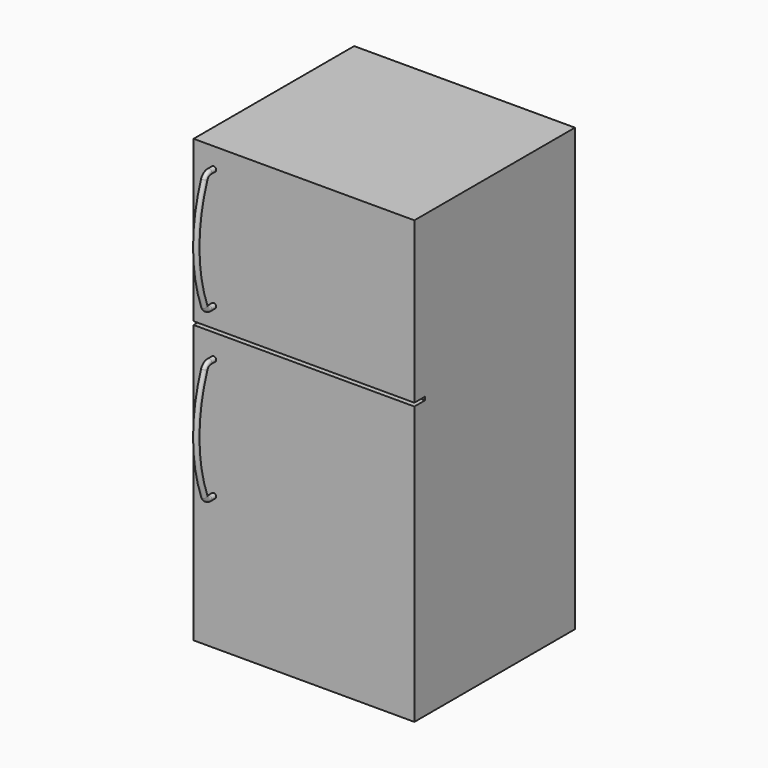
from build123d import *

# Parameters (mm, degrees)
F0_W     = 838.2
F0_H     = 1676.4
F1_DEPTH = 762
F2_W     = 838.2
F2_H     = 12.7
F3_DEPTH = 50.8
F5_R     = 9.525


with BuildPart() as f1:
    # F0 (on Front) → F1 (new body)
    with BuildSketch(Plane.XZ):
        with Locations((419.1, 838.2)):
            Rectangle(F0_W, F0_H)
    extrude(amount=F1_DEPTH)

    # F2 (on face) → F3 (cut)
    with BuildSketch(Plane.XZ.offset(762)):
        with Locations((419.1, 1060.45)):
            Rectangle(F2_W, F2_H)
    extrude(amount=-F3_DEPTH, mode=Mode.SUBTRACT)

    # F7: sweep along a path in F6
    with BuildLine(Plane(origin=(76.2, 0, 0), x_dir=(0, -1, 0), z_dir=(-1, 0, 0))) as f7_path:
        Line((762, 1600.2), (782.7021915694, 1600.2))
        ThreePointArc((782.7021915694, 1600.2), (797.2096140296, 1595.6493331683), (806.5187336391, 1583.6279286268))
        ThreePointArc((806.5187336391, 1583.6279286268), (844.55, 1371.6), (806.5187336391, 1159.5720713732))
        ThreePointArc((806.5187336391, 1159.5720713732), (797.2096140296, 1147.5506668317), (782.7021915694, 1143))
        Line((782.7021915694, 1143), (762, 1143))
    # F5 (on face) → F7 (sweep)
    with BuildSketch(Plane.XZ.offset(762)):
        with Locations((76.2, 1600.2)):
            Circle(F5_R)
    f7 = sweep(path=f7_path.line)

    # F8: F7 across face
    add(f7.mirror(Plane(origin=(419.1, -736.6, 1054.1), x_dir=(1, 0, 0), z_dir=(0, 0, 1))))


solid = f1.part
